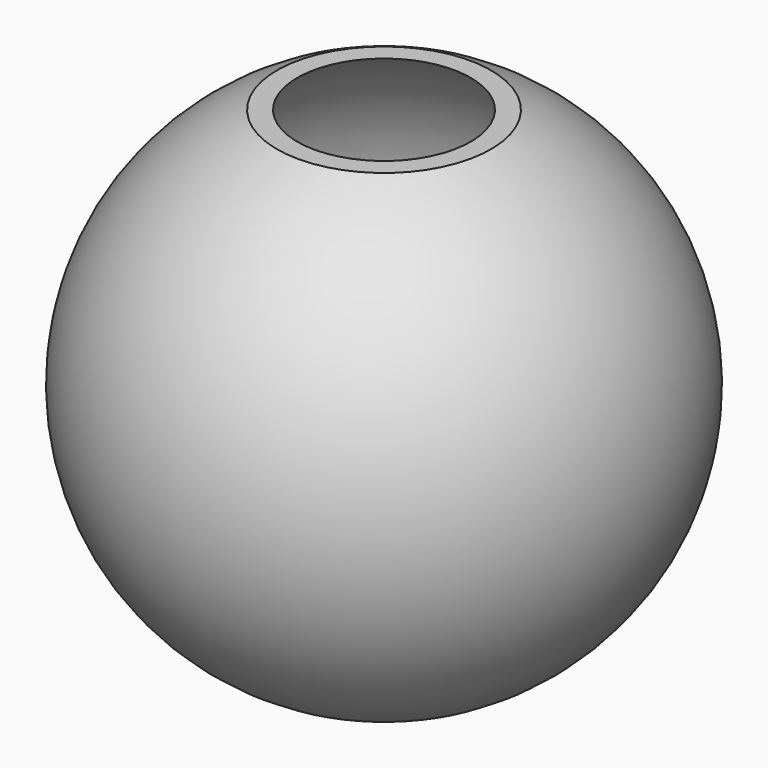
from build123d import *


with BuildPart() as f2:
    # F0 (on Right) → F2 (revolve)
    with BuildSketch(Plane.YZ):
        with BuildLine():
            Line((-11.489125, 32), (-14.177447, 32))
            ThreePointArc((-14.177447, 32), (-35, 0), (-14.177447, -32))
            Line((-14.177447, -32), (-11.489125, -32))
            ThreePointArc((-11.489125, -32), (-34, 0), (-11.489125, 32))
        make_face()
    revolve(axis=Axis((0, 0, 5), (0, 0, 1)))


solid = f2.part
